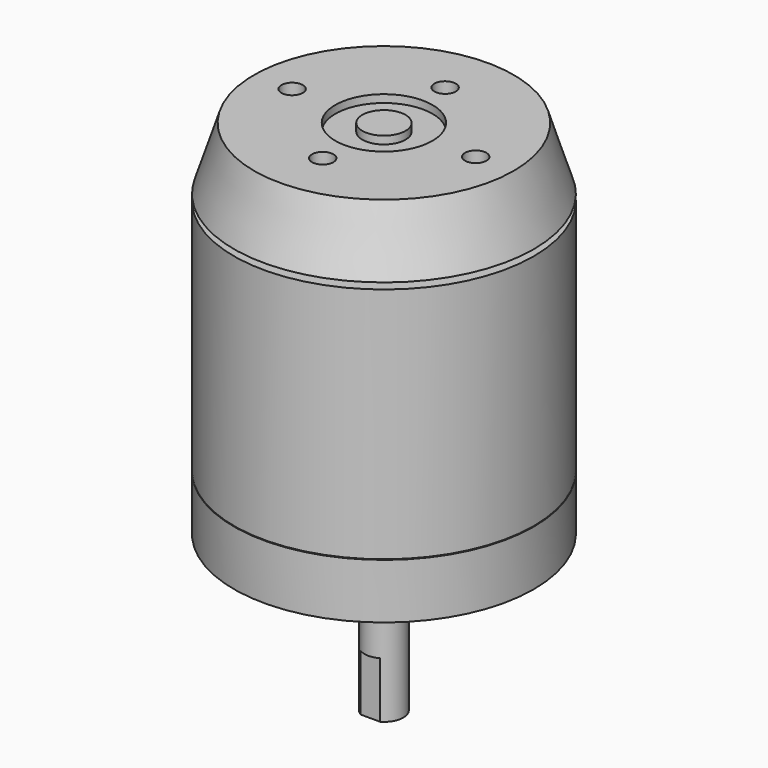
from build123d import *

# Parameters (mm, degrees)
F0_R      = 24.5
F1_DEPTH  = 38.8
F3_R      = 24.5
F4_DEPTH  = 9
F6_R      = 24.5
F8_R      = 21.221318
F10_R     = 7.9375
F10_R_2   = 3.534785
F11_DEPTH = 1.27
F12_R     = 1.75
F13_DEPTH = 7.62
F17_DEPTH = 9.144


with BuildPart() as f1:
    # F0 (on Top) → F1 (new body)
    with BuildSketch(Plane.XY):
        Circle(F0_R)
    extrude(amount=F1_DEPTH)


with BuildPart() as f4:
    # F3 (on offset) → F4 (new body)
    with BuildSketch(Plane(origin=(0, 0, -0.1016), x_dir=(1, 0, 0), z_dir=(0, 0, -1))):
        Circle(F3_R)
    extrude(amount=F4_DEPTH)

    # F14 (on Right) → F15 (revolve)
    with BuildSketch(Plane.YZ):
        Polygon((3.25, -9.1016), (0, -9.1016), (0, -34.5016), (3.175, -34.5016), (3.175, -10.1016), (3.25, -10.1016), align=None)
    revolve(axis=Axis((0, 0, -21.8016), (0, 0, -1)))

    # F16 (on face) → F17 (cut)
    with BuildSketch(Plane(origin=(0, 0, -34.5016), x_dir=(1, 0, 0), z_dir=(0, 0, -1))):
        with BuildLine():
            ThreePointArc((1.5875, 2.749631), (0, 3.175), (-1.5875, 2.749631))
            Line((-1.5875, 2.749631), (1.5875, 2.749631))
        make_face()
    extrude(amount=-F17_DEPTH, mode=Mode.SUBTRACT)


with BuildPart() as f9:
    # F6 (on offset) → F9 section 0
    with BuildSketch(Plane.XY.offset(39.816)):
        Circle(F6_R)
    # F8 (on offset) → F9 section 1
    with BuildSketch(Plane.XY.offset(50.016)):
        Circle(F8_R)
    loft()

    # F10 (on face) → F11 (cut)
    with BuildSketch(Plane.XY.offset(50.016)):
        Circle(F10_R)
        Circle(F10_R_2, mode=Mode.SUBTRACT)
    extrude(amount=-F11_DEPTH, mode=Mode.SUBTRACT)

    # F12 (on face) → F13 (cut)
    with BuildSketch(Plane.XY.offset(50.016)):
        with Locations((0, 12.5)):
            Circle(F12_R)
        with Locations((0, -12.5)):
            Circle(F12_R)
        with Locations((15, 0)):
            Circle(F12_R)
        with Locations((-15, 0)):
            Circle(F12_R)
    extrude(amount=-F13_DEPTH, mode=Mode.SUBTRACT)


solid = Compound([f1.part, f4.part, f9.part])
